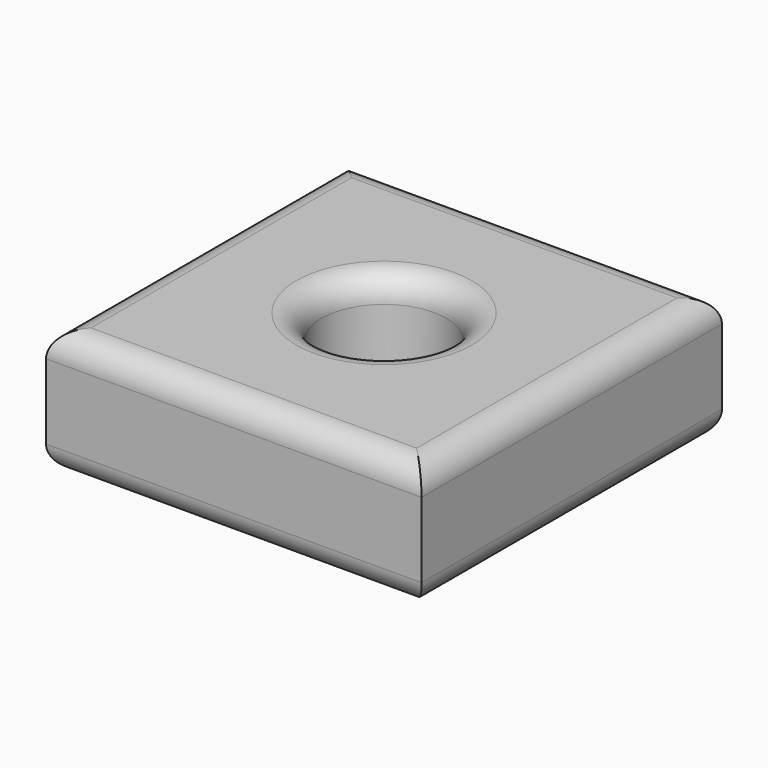
from build123d import *

# Parameters (mm, degrees)
F0_W     = 76.2
F0_H     = 76.2
F0_R     = 12.7
F1_DEPTH = 25.4
F2_R     = 5.08


with BuildPart() as f1:
    # F0 (on Top) → F1 (new body)
    with BuildSketch(Plane.XY):
        with Locations((-5.424507, -4.852483)):
            Rectangle(F0_W, F0_H)
        with Locations((-5.424507, -4.852483)):
            Circle(F0_R, mode=Mode.SUBTRACT)
    extrude(amount=F1_DEPTH)

    # F2
    f2_edges = [f1.edges().sort_by_distance(p)[0] for p in [
        (-5.424507, 33.247517, 25.4),
        (-43.524507, -4.852483, 25.4),
        (-5.424507, -42.952483, 25.4),
        (32.675493, -4.852483, 25.4),
        (-18.124507, -4.852483, 25.4),
        (-5.424507, 33.247517, 0),
        (-43.524507, -4.852483, 0),
        (-5.424507, -42.952483, 0),
        (32.675493, -4.852483, 0),
        (-18.124507, -4.852483, 0),
    ]]
    fillet(f2_edges, radius=F2_R)


solid = f1.part
